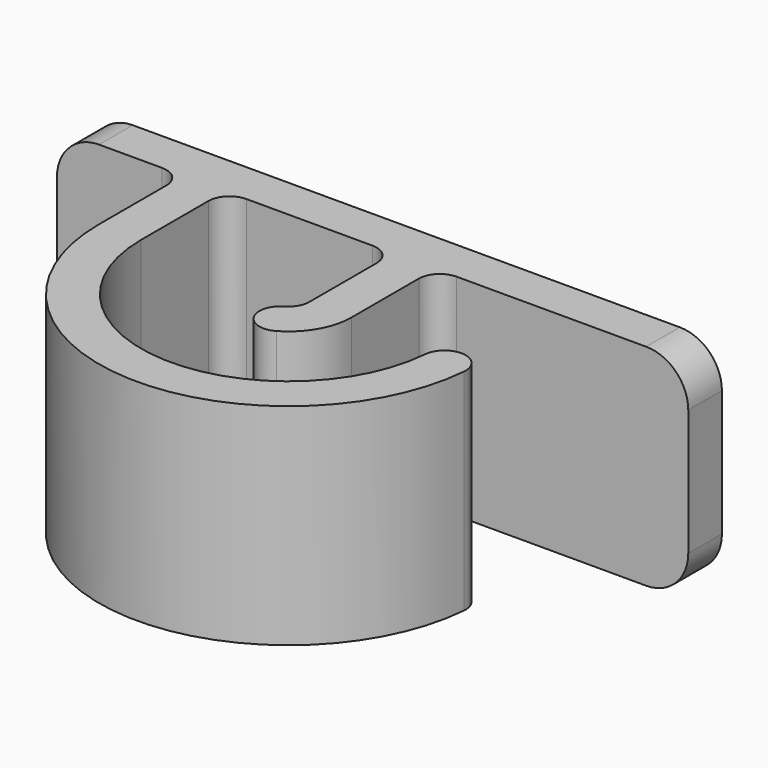
from build123d import *

# Parameters (mm, degrees)
F1_DEPTH = 5
F2_R     = 1


with BuildPart() as f1:
    # F0 (on Top) → F1 (new body)
    with BuildSketch(Plane.XY):
        with BuildLine():
            ThreePointArc((4, -0.5), (4.146447, -0.146447), (4.5, 0))
            Line((4.5, 0), (7.496493, 0))
            ThreePointArc((7.496493, 0), (7.850046, -0.146447), (7.996493, -0.5))
            Line((7.996493, -0.5), (7.996493, -2.5))
            ThreePointArc((7.996493, -2.5), (7.930228, -2.747809), (7.74912, -2.92947))
            ThreePointArc((7.74912, -2.92947), (7.566733, -3.112414), (7.5, -3.361974))
            ThreePointArc((7.5, -3.361974), (7.75044, -3.79524), (8.25088, -3.794477))
            ThreePointArc((8.25088, -3.794477), (8.796761, -3.246929), (8.996493, -2.5))
            Line((8.996493, -2.5), (8.996493, -0.5))
            ThreePointArc((8.996493, -0.5), (9.14294, -0.146447), (9.496493, 0))
            Line((9.496493, 0), (15, 0))
            Line((15, 0), (15, 1))
            Line((15, 1), (0, 1))
            Line((0, 1), (0, 0))
            Line((0, 0), (2.5, 0))
            ThreePointArc((2.5, 0), (2.853553, -0.146447), (3, -0.5))
            Line((3, -0.5), (3, -2.5))
            ThreePointArc((3, -2.5), (7.306682, -6.995846), (11.98339, -2.88628))
            ThreePointArc((11.98339, -2.88628), (11.853651, -2.505321), (11.485236, -2.34336))
            ThreePointArc((11.485236, -2.34336), (11.147197, -2.474944), (10.987081, -2.80044))
            ThreePointArc((10.987081, -2.80044), (7.349641, -5.996769), (4, -2.5))
            Line((4, -2.5), (4, -0.5))
        make_face()
    extrude(amount=F1_DEPTH)

    # F2
    f2_edges = [f1.edges().sort_by_distance(p)[0] for p in [
        (15, 0.5, 5),
        (15, 0.5, 0),
        (0, 0.5, 5),
        (0, 0.5, 0),
    ]]
    fillet(f2_edges, radius=F2_R)


solid = f1.part
